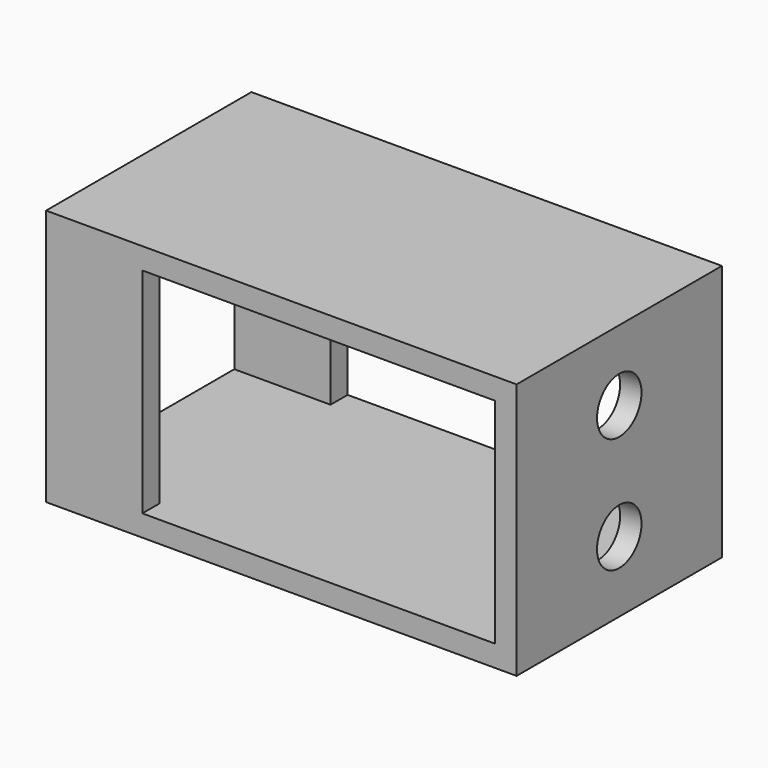
from build123d import *

# Parameters (mm, degrees)
F0_W     = 24
F0_H     = 24
F0_W_2   = 20
F0_H_2   = 20
F1_DEPTH = 42
F2_W     = 33
F2_H     = 20
F3_DEPTH = 31.3
F4_W     = 24
F4_H     = 2
F4_H_2   = 22
F5_DEPTH = 2
F6_R     = 2.6
F7_DEPTH = 25


with BuildPart() as f1:
    # F0 (on Right) → F1 (new body)
    with BuildSketch(Plane.YZ):
        Rectangle(F0_W, F0_H)
        Rectangle(F0_W_2, F0_H_2, mode=Mode.SUBTRACT)
    extrude(amount=F1_DEPTH)

    # F2 (on face) → F3 (cut)
    with BuildSketch(Plane.XZ.offset(12)):
        with Locations((25.5, 0)):
            Rectangle(F2_W, F2_H)
    extrude(amount=-F3_DEPTH, mode=Mode.SUBTRACT)

    # F4 (on face) → F5 (join)
    with BuildSketch(Plane.YZ.offset(42)):
        with Locations((0, -11)):
            Rectangle(F4_W, F4_H)
        with Locations((0, 1)):
            Rectangle(F4_W, F4_H_2)
    extrude(amount=F5_DEPTH)

    # F6 (on face) → F7 (cut)
    with BuildSketch(Plane.YZ.offset(44)):
        with Locations((0, 5.4)):
            Circle(F6_R)
        with Locations((0, -5.4)):
            Circle(F6_R)
    extrude(amount=-F7_DEPTH, mode=Mode.SUBTRACT)


solid = f1.part
